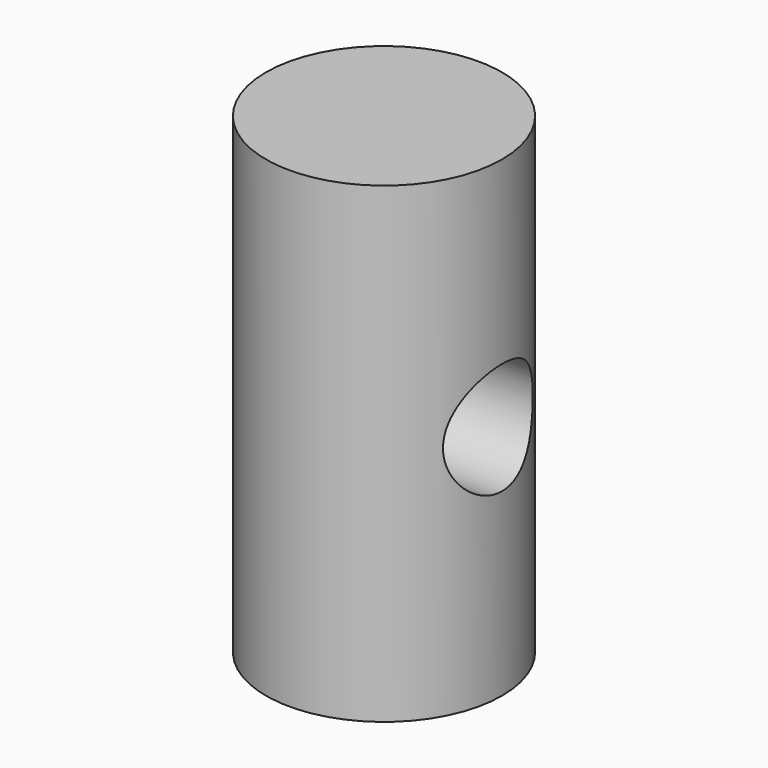
from build123d import *

# Parameters (mm, degrees)
SKETCH_R          = 4
PAD_DEPTH         = 16
SKETCH001_R       = 1.9
POCKET_DEPTH      = 4.001
POCKET_DEPTH_BACK = -4.001


with BuildPart() as part:
    # Sketch → Pad (new body)
    with BuildSketch(Plane.XY):
        Circle(SKETCH_R)
    extrude(amount=PAD_DEPTH)

    # Sketch001 → Pocket (cut, two sides)
    with BuildSketch(Plane.YZ) as pocket_sk:
        with Locations((0, 8)):
            Circle(SKETCH001_R)
    extrude(amount=-POCKET_DEPTH, mode=Mode.SUBTRACT)
    extrude(pocket_sk.sketch, amount=-POCKET_DEPTH_BACK, mode=Mode.SUBTRACT)


solid = part.part
